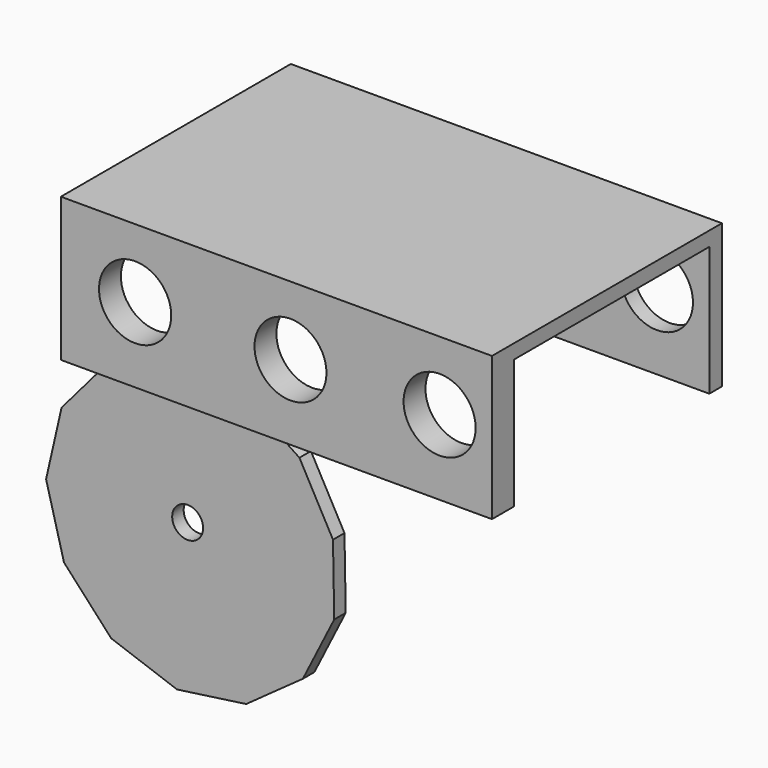
from build123d import *

# Parameters (mm, degrees)
F0_W     = 76.2
F0_H     = 50.8
F1_DEPTH = 25.4
F2_W     = 76.2
F2_H     = 43.18
F3_DEPTH = 22.86
F4_R     = 6.383663
F4_R_2   = 6.35908
F4_R_3   = 6.367487
F5_DEPTH = 78.74
F7_DEPTH = 2.54
F8_R     = 2.734054
F9_DEPTH = 25.4


with BuildPart() as f1:
    # F0 (on Top) → F1 (new body)
    with BuildSketch(Plane.XY):
        with Locations((-2.482411, 4.165309)):
            Rectangle(F0_W, F0_H)
    extrude(amount=F1_DEPTH)

    # F2 (on face) → F3 (cut)
    with BuildSketch(Plane(origin=(0, 0, 0), x_dir=(1, 0, 0), z_dir=(0, 0, -1))):
        with Locations((-2.482411, -5.189879)):
            Rectangle(F2_W, F2_H)
    extrude(amount=-F3_DEPTH, mode=Mode.SUBTRACT)

    # F4 (on face) → F5 (cut)
    with BuildSketch(Plane.XZ.offset(21.234691)):
        with Locations((-27.458796, 13.245586)):
            Circle(F4_R)
        with Locations((0, 13.245586)):
            Circle(F4_R_2)
        with Locations((26.360262, 13.245586)):
            Circle(F4_R_3)
    extrude(amount=-F5_DEPTH, mode=Mode.SUBTRACT)


with BuildPart() as f7:
    # F6 (on Front) → F7 (new body)
    with BuildSketch(Plane.XZ):
        Polygon((-7.441864, -24.794499), (-13.372193, -13.969296), (-23.653961, -7.140016), (-35.931739, -5.871165), (-47.392837, -10.453421), (-55.411653, -19.837045), (-58.151176, -31.872361), (-54.983812, -43.802224), (-46.635167, -52.893646), (-35.017815, -57.063891), (-22.793151, -55.357607), (-12.761698, -48.165682), (-7.221541, -37.135701), align=None)
    extrude(amount=F7_DEPTH)

    # F8 (on face) → F9 (cut)
    with BuildSketch(Plane(origin=(0, 0, 0), x_dir=(-1, 0, 0), z_dir=(0, 1, 0))):
        with Locations((33.130631, -30.457268)):
            Circle(F8_R)
    extrude(amount=-F9_DEPTH, mode=Mode.SUBTRACT)


solid = Compound([f1.part, f7.part])
